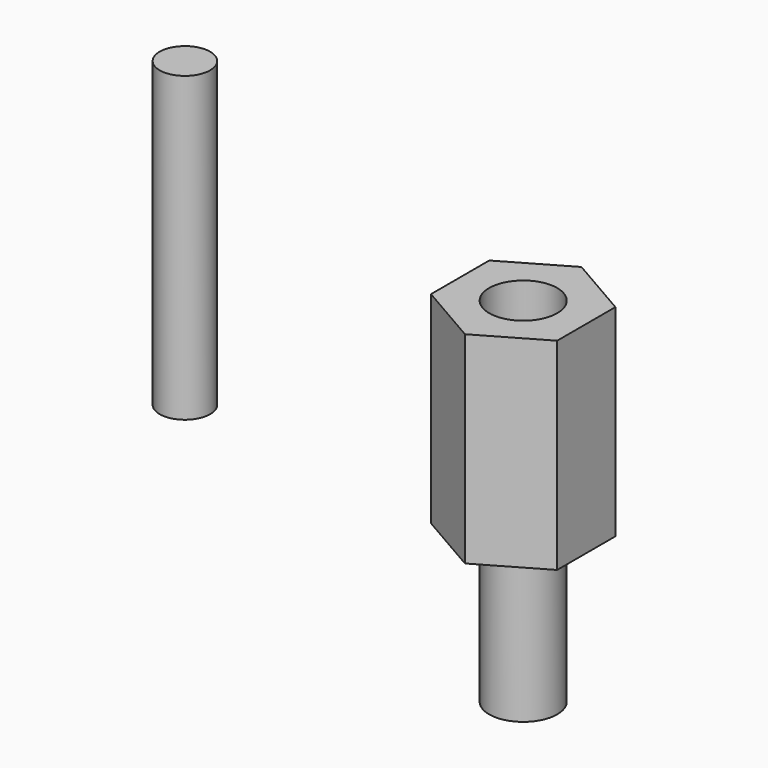
from build123d import *

# Parameters (mm, degrees)
F0_R     = 1
F1_DEPTH = 12
F3_DEPTH = 8
F4_R     = 1.35
F5_DEPTH = 6
F6_R     = 1.35
F7_DEPTH = 6


with BuildPart() as f1:
    # F0 (on Top) → F1 (new body)
    with BuildSketch(Plane.XY):
        Circle(F0_R)
    extrude(amount=F1_DEPTH)


with BuildPart() as f3:
    # F2 (on Top) → F3 (new body)
    with BuildSketch(Plane.XY):
        Polygon((15.910226, -1.443376), (15.910226, 1.443376), (13.410226, 2.886751), (10.910226, 1.443376), (10.910226, -1.443376), (13.410226, -2.886751), align=None)
    extrude(amount=F3_DEPTH)

    # F4 (on face) → F5 (cut)
    with BuildSketch(Plane.XY.offset(8)):
        with Locations((13.410226, 0)):
            Circle(F4_R)
    extrude(amount=-F5_DEPTH, mode=Mode.SUBTRACT)

    # F6 (on face) → F7 (join)
    with BuildSketch(Plane(origin=(0, 0, 0), x_dir=(1, 0, 0), z_dir=(0, 0, -1))):
        with Locations((13.410226, 0)):
            Circle(F6_R)
    extrude(amount=F7_DEPTH)


solid = Compound([f1.part, f3.part])
